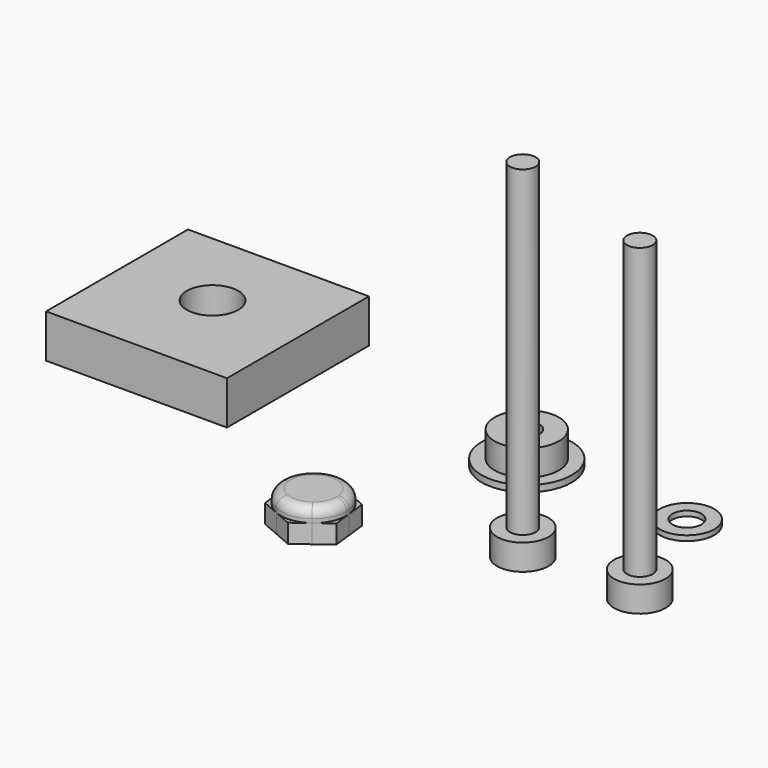
from build123d import *

# Parameters (mm, degrees)
F0_R      = 7
F0_R_2    = 5
F0_R_3    = 4
F1_DEPTH  = 1
F0_R_4    = 2
F2_DEPTH  = 5
F3_R      = 4.25
F3_R_2    = 2.25
F4_DEPTH  = 0.8
F5_W      = 28.1152857468
F5_H      = 27.5567038742
F5_R      = 4
F6_DEPTH  = 6.75
F7_R      = 4
F7_R_2    = 2
F8_DEPTH  = 4
F9_DEPTH  = 49
F11_DEPTH = 2.9
F12_DEPTH = 5
F13_R     = 1.5
F14_DEPTH = 4
F15_DEPTH = 54


with BuildPart() as f1:
    # F0 (on Top) → F1 (new body)
    with BuildSketch(Plane.XY):
        Circle(F0_R)
        Circle(F0_R_2, mode=Mode.SUBTRACT)
        Circle(F0_R_2)
        Circle(F0_R_3, mode=Mode.SUBTRACT)
    extrude(amount=F1_DEPTH)

    # F0 (on Top) → F2 (join)
    with BuildSketch(Plane.XY):
        Circle(F0_R_2)
        Circle(F0_R_3, mode=Mode.SUBTRACT)
        Circle(F0_R_3)
        Circle(F0_R_4, mode=Mode.SUBTRACT)
    extrude(amount=F2_DEPTH)


with BuildPart() as f4:
    # F3 (on Top) → F4 (new body)
    with BuildSketch(Plane.XY):
        with Locations((24.8914246002, 0)):
            Circle(F3_R)
        with Locations((24.8914246002, 0)):
            Circle(F3_R_2, mode=Mode.SUBTRACT)
    extrude(amount=F4_DEPTH)


with BuildPart() as f6:
    # F5 (on Top) → F6 (new body)
    with BuildSketch(Plane.XY):
        with Locations((-48.7253048121, -1.0946599618)):
            Rectangle(F5_W, F5_H)
        with Locations((-48.8184041844, 0)):
            Circle(F5_R, mode=Mode.SUBTRACT)
    extrude(amount=F6_DEPTH)


with BuildPart() as f8:
    # F7 (on Top) → F8 (new body)
    with BuildSketch(Plane.XY):
        with Locations((32.5029231608, -18.6652038246)):
            Circle(F7_R)
        with Locations((32.5029231608, -18.6652038246)):
            Circle(F7_R_2, mode=Mode.SUBTRACT)
    extrude(amount=F8_DEPTH)

    # F7 (on Top) → F9 (join)
    with BuildSketch(Plane.XY):
        with Locations((32.5029231608, -18.6652038246)):
            Circle(F7_R_2)
    extrude(amount=F9_DEPTH)


with BuildPart() as f11:
    # F10 (on Top) → F11 (new body)
    with BuildSketch(Plane.XY):
        with BuildLine():
            ThreePointArc((-7.4536366299, -32.3721504943), (-5.9423756755, -30.5726572777), (-5.4001240137, -28.2861646265))
            ThreePointArc((-5.4001240137, -28.2861646265), (-5.4086546626, -27.9915460171), (-5.4342180254, -27.697914596))
            ThreePointArc((-5.4342180254, -27.697914596), (-6.4059486347, -25.2478667892), (-8.4725159624, -23.6119284918))
            ThreePointArc((-8.4725159624, -23.6119284918), (-11.0801847843, -23.2284480643), (-13.5302324506, -24.2001786625))
            ThreePointArc((-13.5302324506, -24.2001786625), (-15.1661706931, -26.2667458763), (-15.5496511793, -28.874414701))
            ThreePointArc((-15.5496511793, -28.874414701), (-14.5779206101, -31.3244624168), (-12.5113533955, -32.9604006972))
            ThreePointArc((-12.5113533955, -32.9604006972), (-9.9036844256, -33.3438811887), (-7.4536366299, -32.3721504943))
        make_face()
        with BuildLine():
            Line((-15.2100247739, -31.7944888162), (-12.5113533955, -32.9604006972))
            ThreePointArc((-12.5113533955, -32.9604006972), (-14.5779206101, -31.3244624168), (-15.5496511793, -28.874414701))
            Line((-15.5496511793, -28.874414701), (-15.2100247739, -31.7944888162))
        make_face()
        with BuildLine():
            Line((-9.8126818164, -34.126312665), (-7.4536366299, -32.3721504943))
            ThreePointArc((-7.4536366299, -32.3721504943), (-9.9036844256, -33.3438811887), (-12.5113533955, -32.9604006972))
            Line((-12.5113533955, -32.9604006972), (-9.8126818164, -34.126312665))
        make_face()
        with BuildLine():
            ThreePointArc((-5.4342180254, -27.697914596), (-5.4086546626, -27.9915460171), (-5.4001240137, -28.2861646265))
            ThreePointArc((-5.4001240137, -28.2861646265), (-5.9423756755, -30.5726572777), (-7.4536366299, -32.3721504943))
            Line((-7.4536366299, -32.3721504943), (-5.0945916475, -30.6179884753))
            Line((-5.0945916475, -30.6179884753), (-5.4342180254, -27.697914596))
        make_face()
        with BuildLine():
            ThreePointArc((-15.5496511793, -28.874414701), (-15.1661706931, -26.2667458763), (-13.5302324506, -24.2001786625))
            Line((-13.5302324506, -24.2001786625), (-15.8892775624, -25.9543407777))
            Line((-15.8892775624, -25.9543407777), (-15.5496511793, -28.874414701))
        make_face()
        with BuildLine():
            ThreePointArc((-8.4725159624, -23.6119284918), (-6.4059486347, -25.2478667892), (-5.4342180254, -27.697914596))
            Line((-5.4342180254, -27.697914596), (-5.773844436, -24.7778404368))
            Line((-5.773844436, -24.7778404368), (-8.4725159624, -23.6119284918))
        make_face()
        with BuildLine():
            ThreePointArc((-13.5302324506, -24.2001786625), (-11.0801847843, -23.2284480643), (-8.4725159624, -23.6119284918))
            Line((-8.4725159624, -23.6119284918), (-11.1711873934, -22.446016588))
            Line((-11.1711873934, -22.446016588), (-13.5302324506, -24.2001786625))
        make_face()
    extrude(amount=F11_DEPTH)

    # F10 (on Top) → F12 (join)
    with BuildSketch(Plane.XY):
        with BuildLine():
            ThreePointArc((-7.4536366299, -32.3721504943), (-5.9423756755, -30.5726572777), (-5.4001240137, -28.2861646265))
            ThreePointArc((-5.4001240137, -28.2861646265), (-5.4086546626, -27.9915460171), (-5.4342180254, -27.697914596))
            ThreePointArc((-5.4342180254, -27.697914596), (-6.4059486347, -25.2478667892), (-8.4725159624, -23.6119284918))
            ThreePointArc((-8.4725159624, -23.6119284918), (-11.0801847843, -23.2284480643), (-13.5302324506, -24.2001786625))
            ThreePointArc((-13.5302324506, -24.2001786625), (-15.1661706931, -26.2667458763), (-15.5496511793, -28.874414701))
            ThreePointArc((-15.5496511793, -28.874414701), (-14.5779206101, -31.3244624168), (-12.5113533955, -32.9604006972))
            ThreePointArc((-12.5113533955, -32.9604006972), (-9.9036844256, -33.3438811887), (-7.4536366299, -32.3721504943))
        make_face()
    extrude(amount=F12_DEPTH)

    # F13
    f13_edges = [f11.edges().sort_by_distance(p)[0] for p in [
        (-5.434218, -27.697915, 5),
    ]]
    fillet(f13_edges, radius=F13_R)


with BuildPart() as f14:
    # F7 (on Top) → F14 (new body)
    with BuildSketch(Plane.XY):
        with Locations((14.5357996225, -18.9375132322)):
            Circle(F7_R)
        with Locations((14.5357996225, -18.9375132322)):
            Circle(F7_R_2, mode=Mode.SUBTRACT)
    extrude(amount=F14_DEPTH)

    # F7 (on Top) → F15 (join)
    with BuildSketch(Plane.XY):
        with Locations((14.5357996225, -18.9375132322)):
            Circle(F7_R_2)
    extrude(amount=F15_DEPTH)


solid = Compound([f1.part, f4.part, f6.part, f8.part, f11.part, f14.part])
